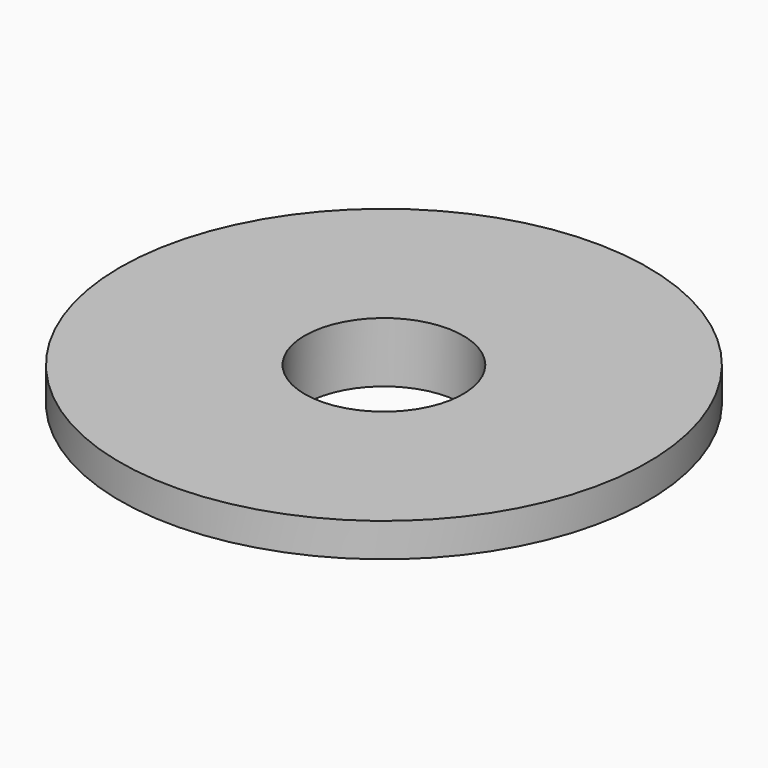
from build123d import *

# Parameters (mm, degrees)
CYLINDER_R                     = 15
CYLINDER_DEPTH                 = 10
REVOLVE_ONTO_SKETCH_ROLL_ANGLE = 90


with BuildPart() as cylinder:
    # Cylinder → Cylinder (new body)
    with BuildSketch(Plane.XY):
        Circle(CYLINDER_R)
    extrude(amount=CYLINDER_DEPTH)


with BuildPart() as cut_float:
    # Sketch as drawn → Revolve (revolve)
    with BuildSketch(Plane.XY):
        Polygon((-3, 0), (-5.213686, 0), (-10, 1), (-10, 5), (-3, 5), align=None)
    revolve(axis=Axis((0, 0, 0), (0, 1, 0)))


with BuildPart() as cut_float_1:
    # Revolve onto Sketch roll: moved
    add(cut_float.part.rotate(Axis((0, 0, 0), (1, 0, 0)), REVOLVE_ONTO_SKETCH_ROLL_ANGLE))


with BuildPart() as cut_float_2:
    # Revolve onto Sketch placement: moved
    add(cut_float_1.part)


with BuildPart() as cut_float_3:
    # Revolve placement: moved
    add(cut_float_2.part.moved(Location((0, 0, -2.28))))

    # Cut: cut Cylinder
    add(cylinder.part, mode=Mode.SUBTRACT)


solid = cut_float_3.part
